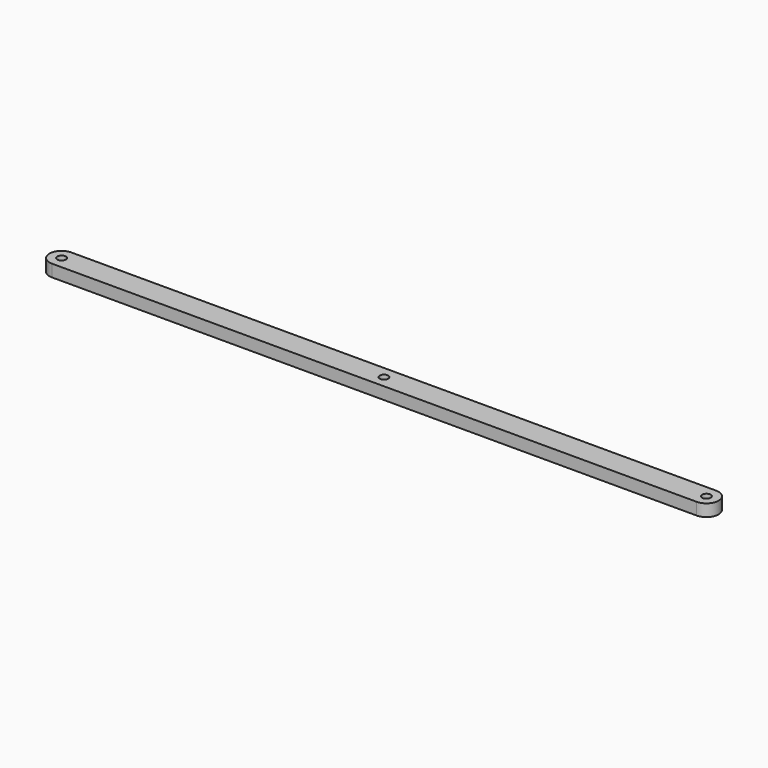
from build123d import *

# Parameters (mm, degrees)
SKETCH_R  = 1.75
PAD_DEPTH = 5


with BuildPart() as part:
    # Sketch → Pad (new body)
    with BuildSketch(Plane.XY):
        with BuildLine():
            ThreePointArc((0, 5), (-5, 0), (0, -5))
            Line((0, -5), (266, -5))
            ThreePointArc((266, -5), (271, 0), (266, 5))
            Line((266, 5), (0, 5))
        make_face()
        Circle(SKETCH_R, mode=Mode.SUBTRACT)
        with Locations((266, 0)):
            Circle(SKETCH_R, mode=Mode.SUBTRACT)
        with Locations((133, 0)):
            Circle(SKETCH_R, mode=Mode.SUBTRACT)
    extrude(amount=PAD_DEPTH)


solid = part.part
